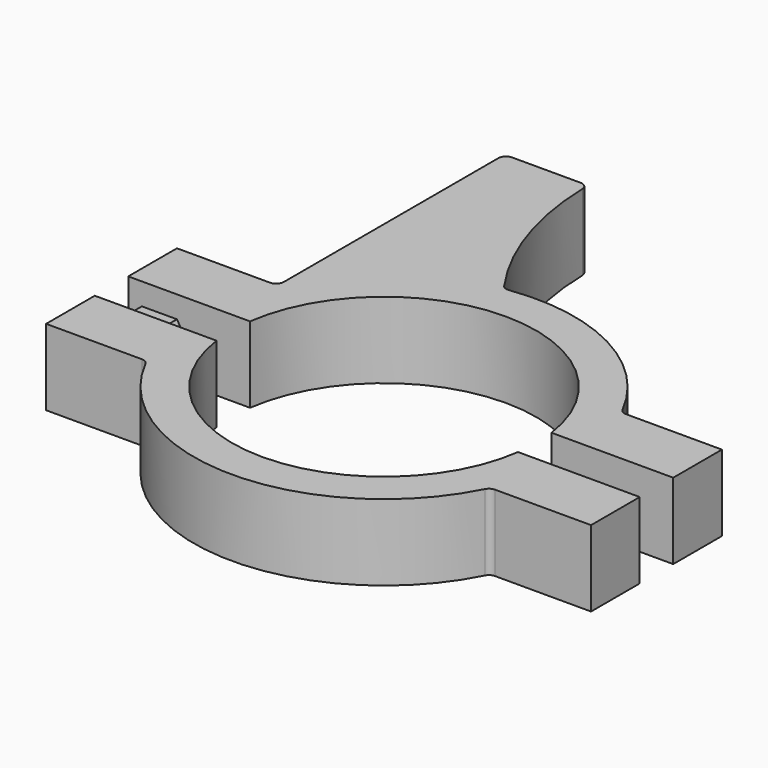
from build123d import *

# Parameters (mm, degrees)
F1_DEPTH = 10
F3_DEPTH = 3.5


with BuildPart() as f1:
    # F0 (on Top) → F1 (new body)
    with BuildSketch(Plane.XY):
        with BuildLine():
            ThreePointArc((-19.810035, 2.75), (0, 20), (19.810035, 2.75))
            Line((19.810035, 2.75), (24.84829, 2.75))
            Line((24.84829, 2.75), (35.810035, 2.75))
            Line((35.810035, 2.75), (35.810035, 10.75))
            Line((35.810035, 10.75), (23.19348, 10.75))
            ThreePointArc((23.19348, 10.75), (22.669993, 10.897966), (22.301423, 11.298077))
            ThreePointArc((22.301423, 11.298077), (11.606106, 22.142681), (-3.397308, 24.76809))
            ThreePointArc((-3.397308, 24.76809), (-3.932535, 24.842008), (-4.351183, 25.183571))
            ThreePointArc((-4.351183, 25.183571), (-9.572791, 35.570195), (-11.558727, 47.024592))
            ThreePointArc((-11.558727, 47.024592), (-11.860066, 47.715748), (-12.558424, 48))
            Line((-12.558424, 48), (-21.570722, 48))
            ThreePointArc((-21.570722, 48), (-22.277829, 47.707107), (-22.570722, 47))
            Line((-22.570722, 47), (-22.570722, 11.75))
            ThreePointArc((-22.570722, 11.75), (-22.863615, 11.042893), (-23.570722, 10.75))
            Line((-23.570722, 10.75), (-35.810035, 10.75))
            Line((-35.810035, 10.75), (-35.810035, 2.75))
            Line((-35.810035, 2.75), (-24.84829, 2.75))
            Line((-24.84829, 2.75), (-19.810035, 2.75))
        make_face()
        with BuildLine():
            ThreePointArc((19.810035, -2.75), (0, -20), (-19.810035, -2.75))
            Line((-19.810035, -2.75), (-24.84829, -2.75))
            Line((-24.84829, -2.75), (-35.810035, -2.75))
            Line((-35.810035, -2.75), (-35.810035, -10.75))
            Line((-35.810035, -10.75), (-23.19348, -10.75))
            ThreePointArc((-23.19348, -10.75), (-22.669993, -10.897966), (-22.301423, -11.298077))
            ThreePointArc((-22.301423, -11.298077), (0, -25), (22.301423, -11.298077))
            ThreePointArc((22.301423, -11.298077), (22.669993, -10.897966), (23.19348, -10.75))
            Line((23.19348, -10.75), (35.810035, -10.75))
            Line((35.810035, -10.75), (35.810035, -2.75))
            Line((35.810035, -2.75), (24.84829, -2.75))
            Line((24.84829, -2.75), (19.810035, -2.75))
        make_face()
    extrude(amount=F1_DEPTH)

    # F2 (on Front) → F3 (join)
    with BuildSketch(Plane.XZ):
        Polygon((-31.823415, 8.945243), (-34.126784, 4.941767), (-31.811356, 0.945252), (-27.192559, 0.952215), (-24.88919, 4.955691), (-27.204618, 8.952205), align=None)
    extrude(amount=F3_DEPTH)


solid = f1.part
